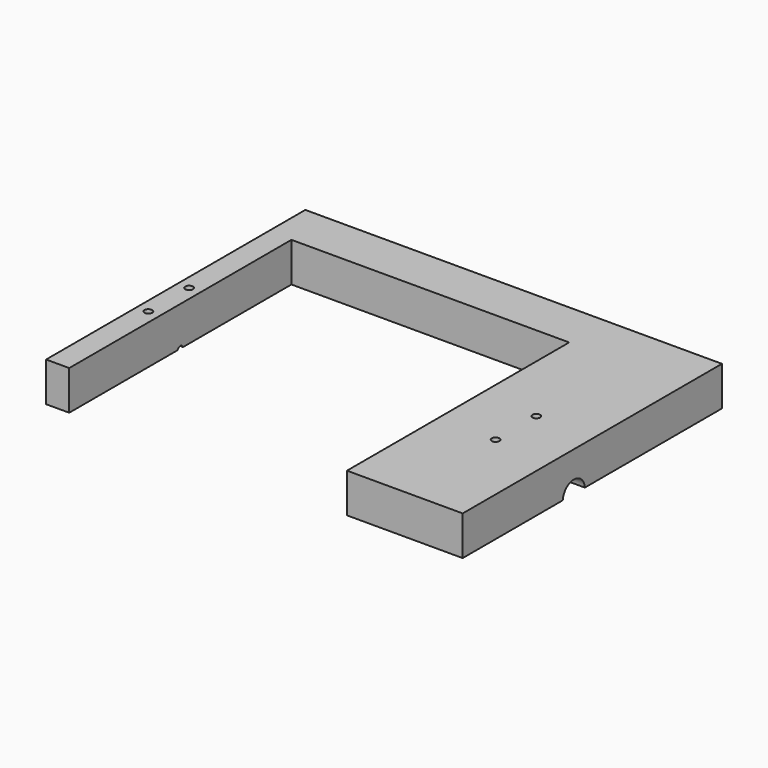
from build123d import *

# Parameters (mm, degrees)
F0_W      = 180
F0_H      = 140
F1_DEPTH  = 30
F3_W      = 120
F3_H      = 120
F4_DEPTH  = 30
F5_DEPTH  = 4
F6_R      = 3.8
F7_DEPTH  = 2
F8_R      = 1.55
F9_DEPTH  = 7
F10_R     = 6
F12_DEPTH = 50
F11_R     = 0.5
F13_DEPTH = 1
F14_W     = 180
F14_H     = 140
F15_DEPTH = 13
F16_R     = 1.65
F17_DEPTH = 30


with BuildPart() as f1:
    # F0 (on Top) → F1 (new body)
    with BuildSketch(Plane.XY):
        Rectangle(F0_W, F0_H)
    extrude(amount=F1_DEPTH)

    # F3 (on Top) → F4 (cut, through all)
    with BuildSketch(Plane.XY):
        with Locations((-20, -10)):
            Rectangle(F3_W, F3_H)
    extrude(amount=F4_DEPTH, mode=Mode.SUBTRACT)

    # F2 (on face) → F5 (cut)
    with BuildSketch(Plane(origin=(-90, 0, 0), x_dir=(0, -1, 0), z_dir=(-1, 0, 0))):
        Polygon((10, 17.12), (5.998963, 14.81), (5.998963, 10.19), (10, 7.88), (14.001037, 10.19), (14.001037, 14.81), align=None)
    extrude(amount=-F5_DEPTH, mode=Mode.SUBTRACT)

    # F6 (on face) → F7 (cut)
    with BuildSketch(Plane(origin=(-86, 0, 0), x_dir=(0, -1, 0), z_dir=(-1, 0, 0))):
        with Locations((10, 12.5)):
            Circle(F6_R)
    extrude(amount=-F7_DEPTH, mode=Mode.SUBTRACT)

    # F8 (on face) → F9 (cut)
    with BuildSketch(Plane(origin=(-84, 0, 0), x_dir=(0, -1, 0), z_dir=(-1, 0, 0))):
        with Locations((10, 12.5)):
            Circle(F8_R)
    extrude(amount=-F9_DEPTH, mode=Mode.SUBTRACT)

    # F10 (on face) → F12 (cut, through all)
    with BuildSketch(Plane.YZ.offset(90)):
        with Locations((-10, 12.5)):
            Circle(F10_R)
    extrude(amount=-F12_DEPTH, mode=Mode.SUBTRACT)

    # F11 (on face) → F13 (cut)
    with BuildSketch(Plane(origin=(0, 70, 0), x_dir=(-1, 0, 0), z_dir=(0, 1, 0))):
        with Locations((20, 6)):
            Circle(F11_R)
        with Locations((-5, 6)):
            Circle(F11_R)
    extrude(amount=-F13_DEPTH, mode=Mode.SUBTRACT)

    # F14 (on Top) → F15 (cut)
    with BuildSketch(Plane.XY):
        Rectangle(F14_W, F14_H)
    extrude(amount=F15_DEPTH, mode=Mode.SUBTRACT)

    # F16 (on Top) → F17 (cut, through all)
    with BuildSketch(Plane.XY):
        with Locations((-85, 1)):
            Circle(F16_R)
        with Locations((-85, -21)):
            Circle(F16_R)
        with Locations((65, 1)):
            Circle(F16_R)
        with Locations((65, -21)):
            Circle(F16_R)
    extrude(amount=F17_DEPTH, mode=Mode.SUBTRACT)


solid = f1.part
